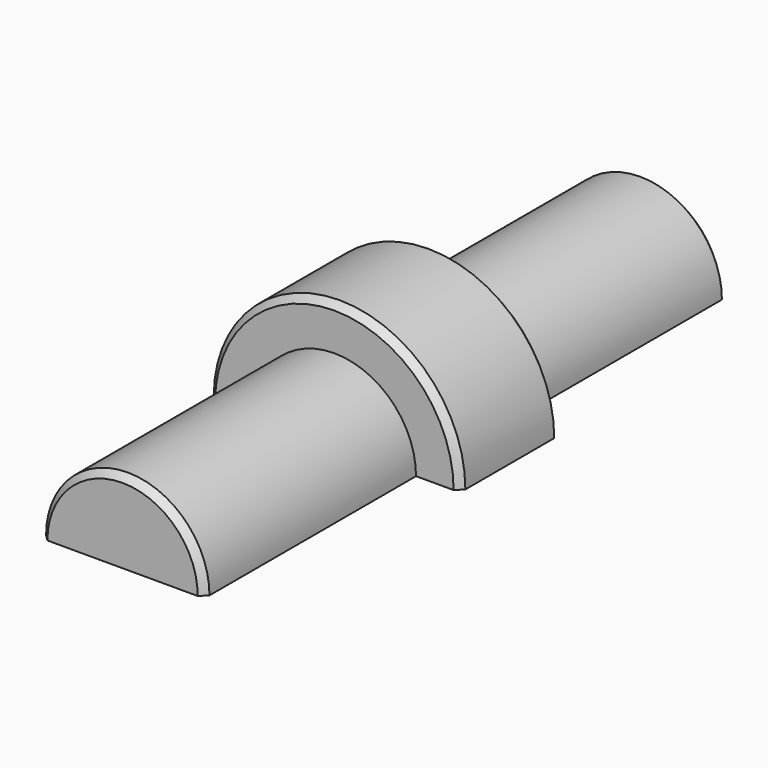
from build123d import *

# Parameters (mm, degrees)
BOX002011_W               = 10
BOX002011_H               = 20
BOX002011_DEPTH           = 10
CYLINDER021_R             = 2.5
CYLINDER021_DEPTH         = 20
CYLINDER020_R             = 3.85
CYLINDER020_DEPTH         = 3.8
FUSION018_PLACEMENT_ANGLE = 90
CUT001020_PLACEMENT_ANGLE = 180
CHAMFER011_SIZE           = 0.2


with BuildPart() as cube013:
    # Box002011 → Box002011 (new body)
    with BuildSketch(Plane(origin=(-5, -10, 0), x_dir=(1, 0, 0), z_dir=(0, 0, 1))):
        with Locations((5, 10)):
            Rectangle(BOX002011_W, BOX002011_H)
    extrude(amount=BOX002011_DEPTH)


with BuildPart() as cylinder021:
    # Cylinder021 → Cylinder021 (new body)
    with BuildSketch(Plane.XY.offset(-10)):
        Circle(CYLINDER021_R)
    extrude(amount=CYLINDER021_DEPTH)


with BuildPart() as plug_pin:
    # Cylinder020 → Cylinder020 (new body)
    with BuildSketch(Plane.XY.offset(-1.9)):
        Circle(CYLINDER020_R)
    extrude(amount=CYLINDER020_DEPTH)

    # Fusion018: union Cylinder021
    add(cylinder021.part)


with BuildPart() as plug_pin_1:
    # Fusion018 placement: moved
    add(plug_pin.part.rotate(Axis((0, 0, 0), (-1, 0, 0)), FUSION018_PLACEMENT_ANGLE))

    # Cut001020: cut Cube013
    add(cube013.part, mode=Mode.SUBTRACT)


with BuildPart() as plug_pin_2:
    # Cut001020 placement: moved
    add(plug_pin_1.part.rotate(Axis((0, 0, 0), (0, 1, 0)), CUT001020_PLACEMENT_ANGLE))

    # Chamfer011
    chamfer011_edges = [plug_pin_2.edges().sort_by_distance(p)[0] for p in [
        (0, 1.9, 3.85),
        (0, -1.9, 3.85),
        (0, 10, 2.5),
        (0, -10, 2.5),
    ]]
    chamfer(chamfer011_edges, length=CHAMFER011_SIZE)


solid = plug_pin_2.part
